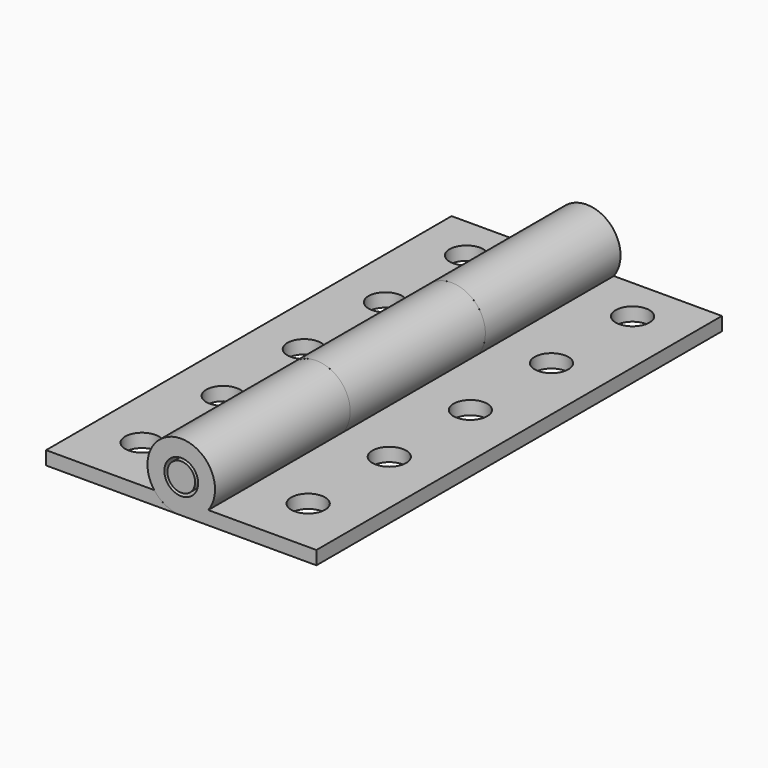
from build123d import *

# Parameters (mm, degrees)
F0_R      = 5
F2_DEPTH  = 25
F1_W      = 20
F1_H      = 2
F3_DEPTH  = 25
F5_DEPTH  = 25
F4_R      = 5
F6_DEPTH  = 25
F7_R      = 2.5
F8_DEPTH  = 85.7
F9_DEPTH  = 25
F10_R     = 5
F11_DEPTH = 25
F12_R     = 2.5
F13_DEPTH = 25
F15_DEPTH = 75
F16_DEPTH = 25
F17_R     = 2.0487384395
F18_DEPTH = 75
F19_R     = 2.5
F20_DEPTH = 25


with BuildPart() as f2:
    # F0 (on Front) → F2 (new body)
    with BuildSketch(Plane.XZ):
        Circle(F0_R)
    extrude(amount=F2_DEPTH)



with BuildPart() as f2b:
    # F1 (on Front) → F2, piece 2 (new body)
    with BuildSketch(Plane.XZ):
        with Locations((10, -4)):
            Rectangle(F1_W, F1_H)
    extrude(amount=F2_DEPTH)


with BuildPart() as f2_1:
    add(f2.part)
    # F3 (add): a face of the model
    f3_faces = [f2b.part.faces().sort_by_distance(p)[0] for p in [
        (10, -25, -4),
    ]]

    add(f2b.part)  # F3 merges F2b
    extrude(f3_faces, amount=F3_DEPTH)

    # F4 (on face) → F5 (join)
    with BuildSketch(Plane.XZ.offset(50)):
        with BuildLine():
            ThreePointArc((4, -3), (2.2360679775, -4.472135955), (0, -5))
            Line((0, -5), (20, -5))
            Line((20, -5), (20, -3))
            Line((20, -3), (4, -3))
        make_face()
    extrude(amount=F5_DEPTH)

    # F4 (on face) → F6 (join)
    with BuildSketch(Plane.XZ.offset(50)):
        Circle(F4_R)
    extrude(amount=F6_DEPTH)

    # F7 (on face) → F8 (cut)
    with BuildSketch(Plane.XZ.offset(75)):
        Circle(F7_R)
    extrude(amount=-F8_DEPTH, mode=Mode.SUBTRACT)

    # F9 (cut): a face of the model
    f9_faces = [f2_1.faces().sort_by_distance(p)[0] for p in [
        (2, -25, -2.8585786438),
    ]]
    extrude(f9_faces, amount=F9_DEPTH, mode=Mode.SUBTRACT)

    # F10 (on face) → F11 (cut)
    with BuildSketch(Plane.XZ.offset(25)):
        Circle(F10_R)
    extrude(amount=F11_DEPTH, mode=Mode.SUBTRACT)

    # F12 (on face) → F13 (cut)
    with BuildSketch(Plane.XY.offset(-3)):
        with Locations((12, -6.5256957896)):
            Circle(F12_R)
        with Locations((12.0000014076, -21.5256957896)):
            Circle(F12_R)
        with Locations((12.0000010356, -36.5256957896)):
            Circle(F12_R)
        with Locations((12.0000010356, -51.5256957896)):
            Circle(F12_R)
        with Locations((12.0000010356, -66.5256957896)):
            Circle(F12_R)
    extrude(amount=-F13_DEPTH, mode=Mode.SUBTRACT)


with BuildPart() as f15:
    # F14 (on face) → F15 (new body)
    with BuildSketch(Plane.XZ.offset(75)):
        with BuildLine():
            Line((-20, -5), (0, -5))
            ThreePointArc((0, -5), (-2.2360679775, -4.472135955), (-4, -3))
            Line((-4, -3), (-20, -3))
            Line((-20, -3), (-20, -5))
        make_face()
    extrude(amount=-F15_DEPTH)

    # F16 (add): a face of the model
    f16_faces = [f2_1.part.faces().sort_by_distance(p)[0] for p in [
        (-2.1728224243, -25, 4.3456448486),
    ]]
    extrude(f16_faces, amount=F16_DEPTH)

    # F19 (on face) → F20 (cut)
    with BuildSketch(Plane.XY.offset(-3)):
        with Locations((-12.5, -6.6137607209)):
            Circle(F19_R)
        with Locations((-12.5, -21.6137607209)):
            Circle(F19_R)
        with Locations((-12.5, -36.6137607209)):
            Circle(F19_R)
        with Locations((-12.5, -51.6137607209)):
            Circle(F19_R)
        with Locations((-12.5, -66.6137607209)):
            Circle(F19_R)
    extrude(amount=-F20_DEPTH, mode=Mode.SUBTRACT)


with BuildPart() as f18:
    # F17 (on face) → F18 (new body)
    with BuildSketch(Plane.XZ.offset(75)):
        Circle(F17_R)
    extrude(amount=-F18_DEPTH)


solid = Compound([f2_1.part, f15.part, f18.part])
